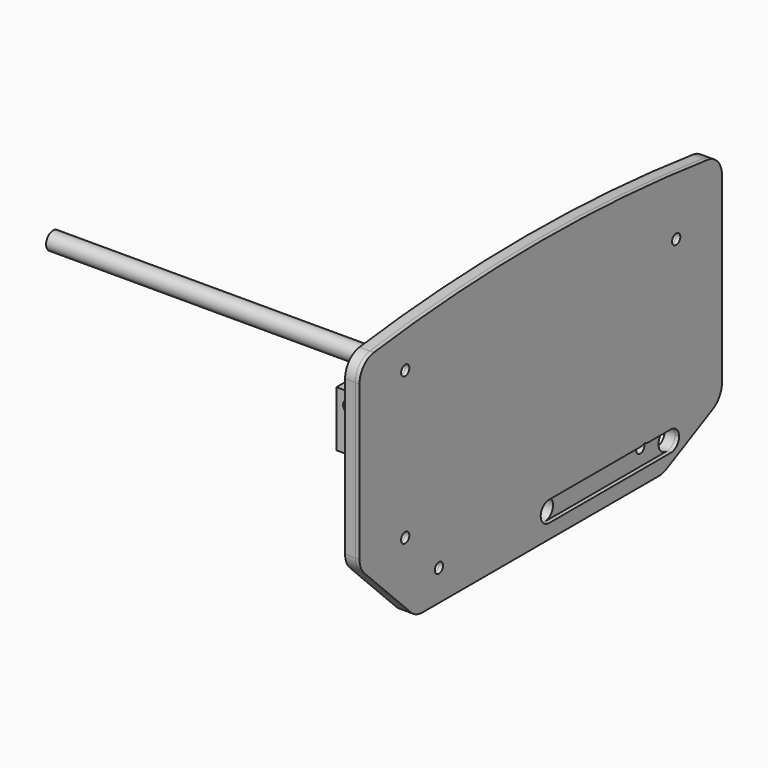
from build123d import *

# Parameters (mm, degrees)
F1_DEPTH  = 5
F2_W      = 7
F2_H      = 5
F2_W_2    = 5
F2_H_2    = 7
F2_R      = 5
F3_DEPTH  = 25
F4_W      = 15
F4_H      = 5
F4_W_2    = 5
F4_H_2    = 10
F4_H_3    = 15
F4_W_3    = 10
F5_DEPTH  = 25
F6_W      = 7
F6_H      = 5
F6_W_2    = 5
F6_H_2    = 7
F7_DEPTH  = 25
F8_R      = 1
F8_R_2    = 5.5
F9_DEPTH  = 5
F11_DEPTH = 5
F12_W     = 5
F12_H     = 7
F12_R     = 3.25
F12_R_2   = 2.5
F13_DEPTH = 5
F15_DEPTH = 5
F17_DEPTH = 2
F18_R     = 2.5
F19_DEPTH = 25
F20_R     = 4.25
F20_R_2   = 2.5
F21_DEPTH = 164
F23_DEPTH = 25


with BuildPart() as f1:
    # F0 (on Right) → F1 (new body)
    with BuildSketch(Plane.YZ):
        with BuildLine():
            ThreePointArc((-78.8100103031, 2.9270257347), (-75.566438129, 0.7606888067), (-71.7408494589, 0))
            Line((-71.7408494589, 0), (71.7408494589, 0))
            ThreePointArc((71.7408494589, 0), (74.0541015881, 0.2712351973), (76.2418666378, 1.0702270827))
            Line((76.2418666378, 1.0702270827), (104.501017179, 15.314141595))
            ThreePointArc((104.501017179, 15.314141595), (108.5149918318, 19.0003552149), (110, 24.2439145123))
            Line((110, 24.2439145123), (110, 113.2439145123))
            ThreePointArc((110, 113.2439145123), (107.5052724084, 119.8523096334), (101.2658227848, 123.1634756254))
            ThreePointArc((101.2658227848, 123.1634756254), (0, 129.5985865737), (-101.2658227848, 123.1634756254))
            ThreePointArc((-101.2658227848, 123.1634756254), (-107.5052724084, 119.8523096334), (-110, 113.2439145123))
            Line((-110, 113.2439145123), (-110, 38.2439145123))
            ThreePointArc((-110, 38.2439145123), (-109.238279289, 34.4158346047), (-107.0691608443, 31.170940247))
            Line((-107.0691608443, 31.170940247), (-78.8100103031, 2.9270257347))
        make_face()
    extrude(amount=F1_DEPTH)

    # F2 (on face) → F3 (cut)
    with BuildSketch(Plane.YZ.offset(5)):
        with Locations((-3, 62)):
            Rectangle(F2_W, F2_H)
        with Locations((-13.5, 56)):
            Rectangle(F2_W_2, F2_H_2)
        with Locations((-13.5, 39)):
            Rectangle(F2_W_2, F2_H_2)
        with Locations((7.5, 56)):
            Rectangle(F2_W_2, F2_H_2)
        with Locations((7.5, 39)):
            Rectangle(F2_W_2, F2_H_2)
        with Locations((42, 53.7439145123)):
            Rectangle(F2_W_2, F2_H_2)
        with Locations((36, 64.2439145123)):
            Rectangle(F2_W, F2_H)
        with Locations((19, 64.2439145123)):
            Rectangle(F2_W, F2_H)
        with Locations((36, 43.2439145123)):
            Rectangle(F2_W, F2_H)
        with Locations((19, 43.2439145123)):
            Rectangle(F2_W, F2_H)
        with Locations((5, 12)):
            Circle(F2_R)
        with Locations((79, 12)):
            Circle(F2_R)
    extrude(amount=-F3_DEPTH, mode=Mode.SUBTRACT)

    # F4 (on face) → F5 (cut)
    with BuildSketch(Plane.YZ.offset(5)):
        with Locations((-3, 123.5)):
            Rectangle(F4_W, F4_H)
        with Locations((-33.5, 116)):
            Rectangle(F4_W_2, F4_H_2)
        with Locations((-33.5, 83)):
            Rectangle(F4_W_2, F4_H_2)
        with Locations((27.5, 116)):
            Rectangle(F4_W_2, F4_H_2)
        with Locations((27.5, 83)):
            Rectangle(F4_W_2, F4_H_2)
        with Locations((103.5, 53.7439145123)):
            Rectangle(F4_W_2, F4_H_3)
        with Locations((96, 84.2439145123)):
            Rectangle(F4_W_3, F4_H)
        with Locations((66, 84.2439145123)):
            Rectangle(F4_W_3, F4_H)
        with Locations((81, 23.2439145123)):
            Rectangle(F4_W_3, F4_H)
    extrude(amount=-F5_DEPTH, mode=Mode.SUBTRACT)

    # F6 (on face) → F7 (cut)
    with BuildSketch(Plane.YZ.offset(5)):
        with Locations((-61.5, 75.7439145123)):
            Rectangle(F6_W, F6_H)
        with Locations((-79, 82.7439145123)):
            Rectangle(F6_W_2, F6_H_2)
        with Locations((-79, 68.7439145123)):
            Rectangle(F6_W_2, F6_H_2)
    extrude(amount=-F7_DEPTH, mode=Mode.SUBTRACT)


with BuildPart() as f9:
    # F8 (on face) → F9 (new body)
    with BuildSketch(Plane.XY.offset(59.5)):
        with BuildLine():
            ThreePointArc((-24.5, -16), (-15.3076118446, -12.1923881554), (-11.5, -3))
            ThreePointArc((-11.5, -3), (-15.3076118446, 6.1923881554), (-24.5, 10))
            ThreePointArc((-24.5, 10), (-37.5, -3), (-24.5, -16))
        make_face()
        with Locations((-19.5, -11.6602540378)):
            Circle(F8_R, mode=Mode.SUBTRACT)
        with Locations((-34.5, -3)):
            Circle(F8_R, mode=Mode.SUBTRACT)
        with Locations((-24.5, -3)):
            Circle(F8_R_2, mode=Mode.SUBTRACT)
        with Locations((-19.5, 5.6602540378)):
            Circle(F8_R, mode=Mode.SUBTRACT)
        with BuildLine():
            ThreePointArc((-24.5, 10), (-15.3076118446, 6.1923881554), (-11.5, -3))
            ThreePointArc((-11.5, -3), (-15.3076118446, -12.1923881554), (-24.5, -16))
            Line((-24.5, -16), (-8, -16))
            Line((-8, -16), (-8, -11))
            Line((-8, -11), (0, -11))
            Line((0, -11), (0, -6.5))
            Line((0, -6.5), (5, -6.5))
            Line((5, -6.5), (5, 0.5))
            Line((5, 0.5), (0, 0.5))
            Line((0, 0.5), (0, 5))
            Line((0, 5), (-8, 5))
            Line((-8, 5), (-8, 10))
            Line((-8, 10), (-24.5, 10))
        make_face()
    extrude(amount=F9_DEPTH)


with BuildPart() as f11:
    # F10 (on face) → F11 (new body)
    with BuildSketch(Plane(origin=(0, 5, 0), x_dir=(-1, 0, 0), z_dir=(0, 1, 0))):
        with BuildLine():
            Line((0, 64.5), (0, 59.5))
            Line((0, 59.5), (-5, 59.5))
            Line((-5, 59.5), (-5, 52.5))
            Line((-5, 52.5), (0, 52.5))
            Line((0, 52.5), (0, 42.5))
            Line((0, 42.5), (-5, 42.5))
            Line((-5, 42.5), (-5, 35.5))
            Line((-5, 35.5), (0, 35.5))
            Line((0, 35.5), (2.3026438853, 35.5))
            ThreePointArc((2.3026438853, 35.5), (8.4022645279, 37.5756938464), (11.9696961639, 42.9410743968))
            Line((11.9696961639, 42.9410743968), (14.1670522786, 51.242197497))
            ThreePointArc((14.1670522786, 51.242197497), (14.4164137365, 52.5108756018), (14.5, 53.8011231002))
            Line((14.5, 53.8011231002), (14.5, 59.5))
            Line((14.5, 59.5), (8, 59.5))
            Line((8, 59.5), (8, 64.5))
            Line((8, 64.5), (0, 64.5))
        make_face()
    extrude(amount=F11_DEPTH)


with BuildPart() as f13:
    # F12 (on face) → F13 (new body)
    with BuildSketch(Plane.XZ.offset(76.5)):
        with Locations((2.5, 82.7439145123)):
            Rectangle(F12_W, F12_H)
        Polygon((0, 79.2439145123), (0, 86.2439145123), (0, 89.2439145123), (-27, 89.2439145123), (-27, 62.2439145123), (0, 62.2439145123), (0, 65.2439145123), (5, 65.2439145123), (5, 72.2439145123), (0, 72.2439145123), (0, 73.2439145123), (-5, 73.2439145123), (-5, 78.2439145123), (0, 78.2439145123), align=None)
        with Locations((-6.5, 68.7439145123)):
            Circle(F12_R, mode=Mode.SUBTRACT)
        with Locations((-13.5, 75.7439145123)):
            Circle(F12_R_2, mode=Mode.SUBTRACT)
        with Locations((-20.5, 82.7439145123)):
            Circle(F12_R, mode=Mode.SUBTRACT)
    extrude(amount=F13_DEPTH)


with BuildPart() as f15:
    # F14 (on face) → F15 (new body)
    with BuildSketch(Plane.XY.offset(73.2439145123)):
        with BuildLine():
            Line((5, -58), (0, -58))
            Line((0, -58), (-3.7720073154, -58))
            ThreePointArc((-3.7720073154, -58), (-4.9645600188, -58.1443004572), (-6.0882783621, -58.5688727802))
            Line((-6.0882783621, -58.5688727802), (-24.3162710467, -68.0971416835))
            ThreePointArc((-24.3162710467, -68.0971416835), (-26.2767601776, -69.9380329328), (-27, -72.5282689033))
            Line((-27, -72.5282689033), (-27, -76.5))
            Line((-27, -76.5), (-18.5, -76.5))
            Line((-18.5, -76.5), (-18.5, -69.5))
            Line((-18.5, -69.5), (-8.5, -69.5))
            Line((-8.5, -69.5), (-8.5, -76.5))
            Line((-8.5, -76.5), (-5, -76.5))
            Line((-5, -76.5), (-5, -81.5))
            Line((-5, -81.5), (0, -81.5))
            Line((0, -81.5), (0, -76.5))
            Line((0, -76.5), (0, -65))
            Line((0, -65), (5, -65))
            Line((5, -65), (5, -58))
        make_face()
    extrude(amount=F15_DEPTH)


with BuildPart() as f17:
    # F16 (on face) → F17 (new body)
    with BuildSketch(Plane.YZ.offset(5)):
        with BuildLine():
            ThreePointArc((-78.8100103031, 2.9270257347), (-75.566438129, 0.7606888067), (-71.7408494589, 0))
            Line((-71.7408494589, 0), (71.7408494589, 0))
            ThreePointArc((71.7408494589, 0), (74.0541015881, 0.2712351973), (76.2418666378, 1.0702270827))
            Line((76.2418666378, 1.0702270827), (104.501017179, 15.314141595))
            ThreePointArc((104.501017179, 15.314141595), (108.5149918318, 19.0003552149), (110, 24.2439145123))
            Line((110, 24.2439145123), (110, 113.2439145123))
            ThreePointArc((110, 113.2439145123), (107.5052724084, 119.8523096334), (101.2658227848, 123.1634756254))
            ThreePointArc((101.2658227848, 123.1634756254), (0, 129.5985865737), (-101.2658227848, 123.1634756254))
            ThreePointArc((-101.2658227848, 123.1634756254), (-107.5052724084, 119.8523096334), (-110, 113.2439145123))
            Line((-110, 113.2439145123), (-110, 38.2439145123))
            ThreePointArc((-110, 38.2439145123), (-109.238279289, 34.4158346047), (-107.0691608443, 31.170940247))
            Line((-107.0691608443, 31.170940247), (-78.8100103031, 2.9270257347))
        make_face()
    extrude(amount=F17_DEPTH)


with BuildPart() as f19_tool:
    # F18 (on face) → F19 (new body)
    with BuildSketch(Plane.YZ.offset(7)):
        with Locations((-82.25, 107.75)):
            Circle(F18_R)
        with Locations((-82.25, 36.25)):
            Circle(F18_R)
        with Locations((-61.7408494589, 15)):
            Circle(F18_R)
        with Locations((62.9591505411, 15)):
            Circle(F18_R)
        with Locations((82.25, 97)):
            Circle(F18_R)
    extrude(amount=-F19_DEPTH)


with BuildPart() as f1_1:
    add(f1.part)

    # F19: cut by f19_tool
    add(f19_tool.part, mode=Mode.SUBTRACT)


with BuildPart() as f17_1:
    add(f17.part)

    # F19: cut by f19_tool
    add(f19_tool.part, mode=Mode.SUBTRACT)

    # F22 (on face) → F23 (cut)
    with BuildSketch(Plane.YZ.offset(7)):
        with BuildLine():
            ThreePointArc((79, 7), (82.5355339059, 8.4644660941), (84, 12))
            ThreePointArc((84, 12), (82.5355339059, 15.5355339059), (79, 17))
            ThreePointArc((79, 17), (74, 12), (79, 7))
        make_face()
        with BuildLine():
            ThreePointArc((79, 7), (74, 12), (79, 17))
            Line((79, 17), (5, 17))
            ThreePointArc((5, 17), (8.5355339059, 15.5355339059), (10, 12))
            ThreePointArc((10, 12), (8.5355339059, 8.4644660941), (5, 7))
            Line((5, 7), (79, 7))
        make_face()
        with BuildLine():
            ThreePointArc((10, 12), (8.5355339059, 15.5355339059), (5, 17))
            ThreePointArc((5, 17), (0, 12), (5, 7))
            ThreePointArc((5, 7), (8.5355339059, 8.4644660941), (10, 12))
        make_face()
    extrude(amount=-F23_DEPTH, mode=Mode.SUBTRACT)


with BuildPart() as f21:
    # F20 (on face) → F21 (new body)
    with BuildSketch(Plane(origin=(0, 0, 0), x_dir=(0, -1, 0), z_dir=(-1, 0, 0))):
        with Locations((82.25, 107.75)):
            Circle(F20_R)
        with Locations((82.25, 107.75)):
            Circle(F20_R_2, mode=Mode.SUBTRACT)
    extrude(amount=F21_DEPTH)


solid = Compound([f9.part, f11.part, f13.part, f15.part, f1_1.part, f17_1.part, f21.part])
